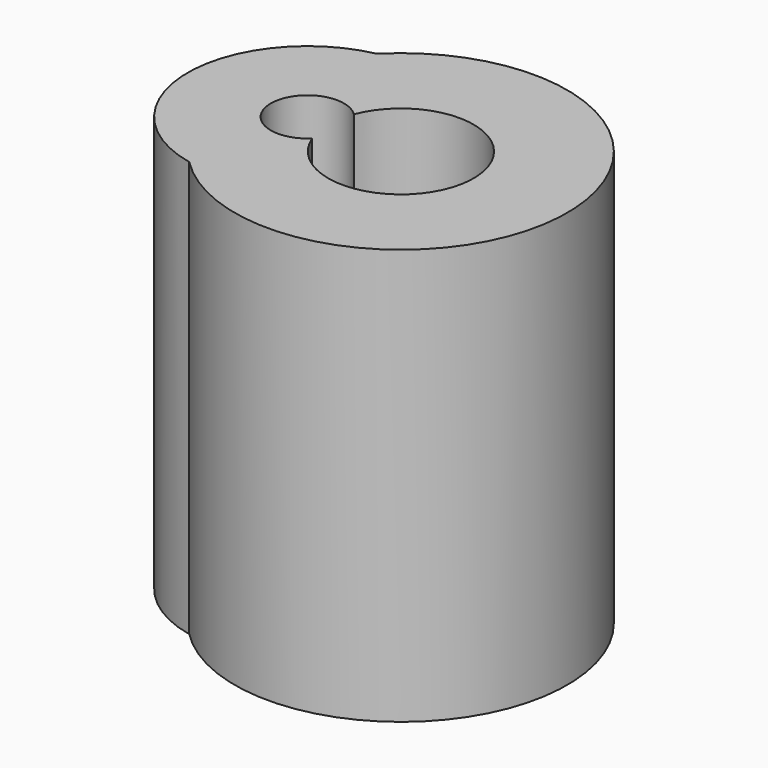
from build123d import *

# Parameters (mm, degrees)
CYLINDER001_R     = 0.88
CYLINDER001_DEPTH = 10
CYLINDER002_R     = 1.75
CYLINDER002_DEPTH = 10
CYLINDER_R        = 2.88
CYLINDER_DEPTH    = 10
CYLINDER003_R     = 4
CYLINDER003_DEPTH = 10


with BuildPart() as filament:
    # Cylinder001 → Cylinder001 (new body)
    with BuildSketch(Plane.XY):
        Circle(CYLINDER001_R)
    extrude(amount=CYLINDER001_DEPTH)


with BuildPart() as screw:
    # Cylinder002 → Cylinder002 (new body)
    with BuildSketch(Plane(origin=(2.25, 0, 0), x_dir=(1, 0, 0), z_dir=(0, 0, 1))):
        Circle(CYLINDER002_R)
    extrude(amount=CYLINDER002_DEPTH)


with BuildPart() as supportfilament:
    # Cylinder → Cylinder (new body)
    with BuildSketch(Plane.XY):
        Circle(CYLINDER_R)
    extrude(amount=CYLINDER_DEPTH)


with BuildPart() as cut001:
    # Cylinder003 → Cylinder003 (new body)
    with BuildSketch(Plane(origin=(2.25, 0, 0), x_dir=(1, 0, 0), z_dir=(0, 0, 1))):
        Circle(CYLINDER003_R)
    extrude(amount=CYLINDER003_DEPTH)

    # Fusion: union SupportFilament
    add(supportfilament.part)

    # Cut: cut Screw
    add(screw.part, mode=Mode.SUBTRACT)

    # Cut001: cut Filament
    add(filament.part, mode=Mode.SUBTRACT)


solid = cut001.part
